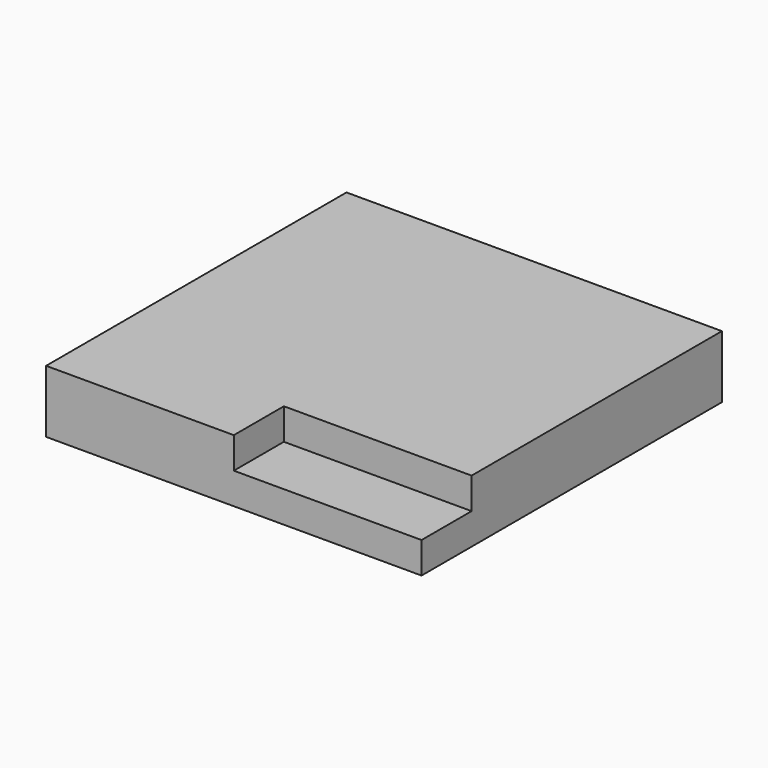
from build123d import *

# Parameters (mm, degrees)
F0_W       = 152.4
F0_H       = 152.4
F1_DEPTH   = 25.4
F2_W       = 76.2
F2_H       = 12.7
F1_FACE1_W = 152.4
F1_FACE1_H = 25.4
F3_DEPTH   = 25.4


with BuildPart() as f1:
    # F0 (on Top) → F1 (new body)
    with BuildSketch(Plane.XY):
        with Locations((76.2, 76.2)):
            Rectangle(F0_W, F0_H)
    extrude(amount=F1_DEPTH)

    # F2 (on face) + F1_face1 (on face) → F3 (cut)
    with BuildSketch(Plane.XZ):
        with Locations((114.3, 19.05)):
            Rectangle(F2_W, F2_H)
    with BuildSketch(Plane(origin=(76.2, 152.4, 12.7), x_dir=(-1, 0, 0), z_dir=(0, 1, 0))):
        Rectangle(F1_FACE1_W, F1_FACE1_H)
    extrude(amount=-F3_DEPTH, dir=(0, -1, 0), mode=Mode.SUBTRACT)


solid = f1.part
